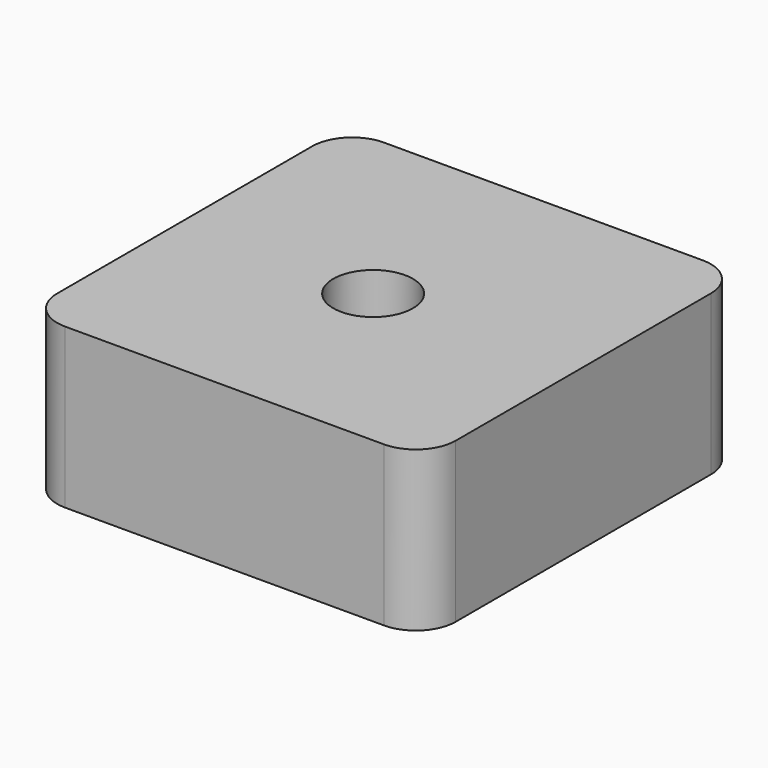
from build123d import *

# Parameters (mm, degrees)
F0_R     = 2.5
F1_DEPTH = 4.9999998882
F2_DEPTH = 5


with BuildPart() as f1:
    # F0 (on Top) → F1 (new body)
    with BuildSketch(Plane.XY):
        with BuildLine():
            Line((-0.4416928518, 6.0201503709), (-20.4416928518, 6.0201503709))
            ThreePointArc((-20.4416928518, 6.0201503709), (-22.2094598048, 5.2879173239), (-22.9416928518, 3.5201503709))
            Line((-22.9416928518, 3.5201503709), (-22.9416928518, -16.4798496291))
            ThreePointArc((-22.9416928518, -16.4798496291), (-22.2094598048, -18.2476165821), (-20.4416928518, -18.9798496291))
            Line((-20.4416928518, -18.9798496291), (-0.4416928518, -18.9798496291))
            ThreePointArc((-0.4416928518, -18.9798496291), (1.3260741011, -18.2476165821), (2.0583071482, -16.4798496291))
            Line((2.0583071482, -16.4798496291), (2.0583071482, 3.5201503709))
            ThreePointArc((2.0583071482, 3.5201503709), (1.3260741011, 5.2879173239), (-0.4416928518, 6.0201503709))
        make_face()
        with Locations((-10.8535308391, -6.8182437681)):
            Circle(F0_R, mode=Mode.SUBTRACT)
    extrude(amount=F1_DEPTH)

    # F0 (on Top) → F2 (join)
    with BuildSketch(Plane.XY):
        with BuildLine():
            Line((-0.4416928518, 6.0201503709), (-20.4416928518, 6.0201503709))
            ThreePointArc((-20.4416928518, 6.0201503709), (-22.2094598048, 5.2879173239), (-22.9416928518, 3.5201503709))
            Line((-22.9416928518, 3.5201503709), (-22.9416928518, -16.4798496291))
            ThreePointArc((-22.9416928518, -16.4798496291), (-22.2094598048, -18.2476165821), (-20.4416928518, -18.9798496291))
            Line((-20.4416928518, -18.9798496291), (-0.4416928518, -18.9798496291))
            ThreePointArc((-0.4416928518, -18.9798496291), (1.3260741011, -18.2476165821), (2.0583071482, -16.4798496291))
            Line((2.0583071482, -16.4798496291), (2.0583071482, 3.5201503709))
            ThreePointArc((2.0583071482, 3.5201503709), (1.3260741011, 5.2879173239), (-0.4416928518, 6.0201503709))
        make_face()
        with Locations((-10.8535308391, -6.8182437681)):
            Circle(F0_R, mode=Mode.SUBTRACT)
        with Locations((-10.8535308391, -6.8182437681)):
            Circle(F0_R)
    extrude(amount=-F2_DEPTH)


solid = f1.part
